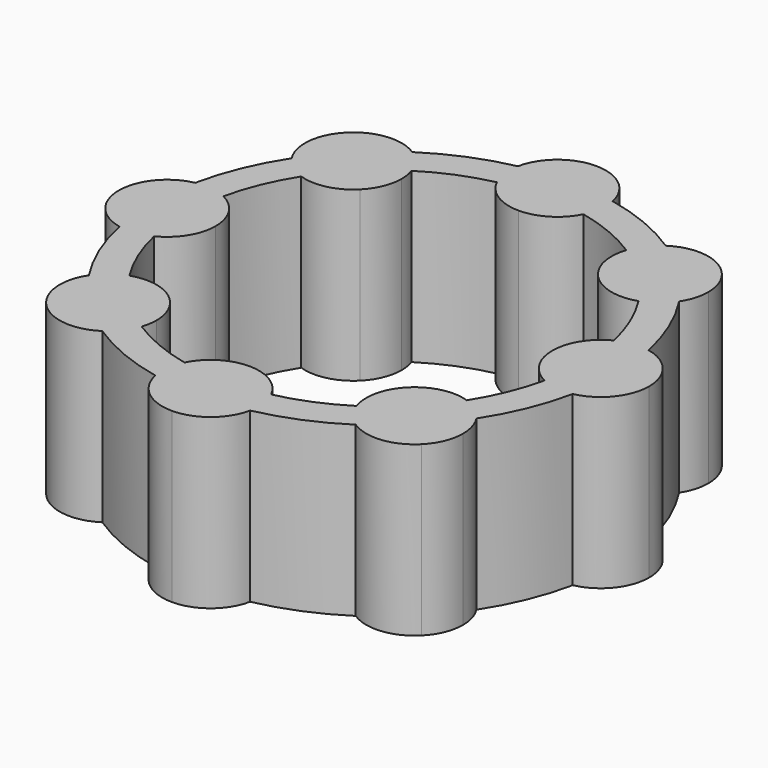
from build123d import *

# Parameters (mm, degrees)
F1_DEPTH = 8


with BuildPart() as f1:
    # F0 (on Top) → F1 (new body)
    with BuildSketch(Plane.XY):
        with BuildLine():
            ThreePointArc((2.2520923755, 10.7669902913), (1.4518819391, 12.0838270193), (0, 12.6))
            ThreePointArc((0, 12.6), (-1.4518819391, 12.0838270193), (-2.2520923755, 10.7669902913))
            ThreePointArc((-2.2520923755, 10.7669902913), (0, 11), (2.2520923755, 10.7669902913))
        make_face()
        with BuildLine():
            ThreePointArc((2.3, 10.3), (2.2879917465, 10.5347206172), (2.2520923755, 10.7669902913))
            ThreePointArc((2.2520923755, 10.7669902913), (0, 11), (-2.2520923755, 10.7669902913))
            ThreePointArc((-2.2520923755, 10.7669902913), (-2.2809196167, 10.0043554464), (-2.0586116077, 9.2742718447))
            ThreePointArc((-2.0586116077, 9.2742718447), (0, 9.5), (2.0586116077, 9.2742718447))
            ThreePointArc((2.0586116077, 9.2742718447), (2.2388397327, 9.7731255831), (2.3, 10.3))
        make_face()
        with BuildLine():
            ThreePointArc((2.0586116077, 9.2742718447), (0, 9.5), (-2.0586116077, 9.2742718447))
            ThreePointArc((-2.0586116077, 9.2742718447), (-1.210542284, 8.34434477), (0, 8))
            ThreePointArc((0, 8), (1.210542284, 8.34434477), (2.0586116077, 9.2742718447))
        make_face()
        with BuildLine():
            ThreePointArc((-2.0586116077, 9.2742718447), (-2.2809196167, 10.0043554464), (-2.2520923755, 10.7669902913))
            ThreePointArc((-2.2520923755, 10.7669902913), (-4.209517756, 10.1626748576), (-6.0209420573, 9.2058816385))
            ThreePointArc((-6.0209420573, 9.2058816385), (-5.4612938492, 8.6870013059), (-5.1022422843, 8.0135587396))
            ThreePointArc((-5.1022422843, 8.0135587396), (-3.6354926075, 8.7768555589), (-2.0586116077, 9.2742718447))
        make_face()
        with BuildLine():
            ThreePointArc((-6.0209420573, 9.2058816385), (-7.5179204749, 9.5711915915), (-8.9095454592, 8.9095454267))
            ThreePointArc((-8.9095454592, 8.9095454267), (-9.5711915938, 7.5179204521), (-9.2058816385, 6.0209420573))
            ThreePointArc((-9.2058816385, 6.0209420573), (-7.7781745931, 7.7781745931), (-6.0209420573, 9.2058816385))
        make_face()
        with BuildLine():
            ThreePointArc((-5.1022422843, 8.0135587396), (-5.4612938492, 8.6870013059), (-6.0209420573, 9.2058816385))
            ThreePointArc((-6.0209420573, 9.2058816385), (-7.7781745931, 7.7781745931), (-9.2058816385, 6.0209420573))
            ThreePointArc((-9.2058816385, 6.0209420573), (-8.6870013059, 5.4612938492), (-8.0135587396, 5.1022422843))
            ThreePointArc((-8.0135587396, 5.1022422843), (-6.7175144213, 6.7175144213), (-5.1022422843, 8.0135587396))
        make_face()
        with BuildLine():
            ThreePointArc((-4.9831998462, 7.2831998462), (-5.0131555303, 7.6531982297), (-5.1022422843, 8.0135587396))
            ThreePointArc((-5.1022422843, 8.0135587396), (-6.7175144213, 6.7175144213), (-8.0135587396, 5.1022422843))
            ThreePointArc((-8.0135587396, 5.1022422843), (-6.7563254348, 5.0443601122), (-5.6568542575, 5.6568542415))
            ThreePointArc((-5.6568542575, 5.6568542415), (-5.1582769236, 6.4030279466), (-4.9831998462, 7.2831998462))
        make_face()
        with BuildLine():
            ThreePointArc((-8.0135587396, 5.1022422843), (-8.6870013059, 5.4612938492), (-9.2058816385, 6.0209420573))
            ThreePointArc((-9.2058816385, 6.0209420573), (-10.1626748576, 4.209517756), (-10.7669902913, 2.2520923755))
            ThreePointArc((-10.7669902913, 2.2520923755), (-10.0043554464, 2.2809196167), (-9.2742718447, 2.0586116077))
            ThreePointArc((-9.2742718447, 2.0586116077), (-8.7768555589, 3.6354926075), (-8.0135587396, 5.1022422843))
        make_face()
        with BuildLine():
            ThreePointArc((-10.7669902913, 2.2520923755), (-12.0838270121, 1.451881948), (-12.6, 2.3e-08))
            ThreePointArc((-12.6, 2.3e-08), (-12.0838270266, -1.4518819302), (-10.7669902913, -2.2520923755))
            ThreePointArc((-10.7669902913, -2.2520923755), (-11, 0), (-10.7669902913, 2.2520923755))
        make_face()
        with BuildLine():
            ThreePointArc((-9.2742718447, 2.0586116077), (-10.0043554464, 2.2809196167), (-10.7669902913, 2.2520923755))
            ThreePointArc((-10.7669902913, 2.2520923755), (-11, 0), (-10.7669902913, -2.2520923755))
            ThreePointArc((-10.7669902913, -2.2520923755), (-10.0043554464, -2.2809196167), (-9.2742718447, -2.0586116077))
            ThreePointArc((-9.2742718447, -2.0586116077), (-9.5, 0), (-9.2742718447, 2.0586116077))
        make_face()
        with BuildLine():
            ThreePointArc((-8, 0), (-8.34434477, 1.210542284), (-9.2742718447, 2.0586116077))
            ThreePointArc((-9.2742718447, 2.0586116077), (-9.5, 0), (-9.2742718447, -2.0586116077))
            ThreePointArc((-9.2742718447, -2.0586116077), (-8.34434477, -1.210542284), (-8, 0))
        make_face()
        with BuildLine():
            ThreePointArc((-10.7669902913, -2.2520923755), (-10.1626748576, -4.209517756), (-9.2058816385, -6.0209420573))
            ThreePointArc((-9.2058816385, -6.0209420573), (-8.6870013059, -5.4612938492), (-8.0135587396, -5.1022422843))
            ThreePointArc((-8.0135587396, -5.1022422843), (-8.7768555589, -3.6354926075), (-9.2742718447, -2.0586116077))
            ThreePointArc((-9.2742718447, -2.0586116077), (-10.0043554464, -2.2809196167), (-10.7669902913, -2.2520923755))
        make_face()
        with BuildLine():
            ThreePointArc((-9.2058816385, -6.0209420573), (-9.5711915942, -7.5179204484), (-8.9095454644, -8.9095454215))
            ThreePointArc((-8.9095454644, -8.9095454215), (-7.5179204785, -9.5711915911), (-6.0209420573, -9.2058816385))
            ThreePointArc((-6.0209420573, -9.2058816385), (-7.7781745931, -7.7781745931), (-9.2058816385, -6.0209420573))
        make_face()
        with BuildLine():
            ThreePointArc((-8.0135587396, -5.1022422843), (-8.6870013059, -5.4612938492), (-9.2058816385, -6.0209420573))
            ThreePointArc((-9.2058816385, -6.0209420573), (-7.7781745931, -7.7781745931), (-6.0209420573, -9.2058816385))
            ThreePointArc((-6.0209420573, -9.2058816385), (-5.4612938492, -8.6870013059), (-5.1022422843, -8.0135587396))
            ThreePointArc((-5.1022422843, -8.0135587396), (-6.7175144213, -6.7175144213), (-8.0135587396, -5.1022422843))
        make_face()
        with BuildLine():
            ThreePointArc((-5.6568542412, -5.6568542578), (-6.7563254237, -5.0443601148), (-8.0135587396, -5.1022422843))
            ThreePointArc((-8.0135587396, -5.1022422843), (-6.7175144213, -6.7175144213), (-5.1022422843, -8.0135587396))
            ThreePointArc((-5.1022422843, -8.0135587396), (-5.0131555303, -7.6531982297), (-4.9831998462, -7.2831998462))
            ThreePointArc((-4.9831998462, -7.2831998462), (-5.1582769192, -6.4030279572), (-5.6568542412, -5.6568542578))
        make_face()
        with BuildLine():
            ThreePointArc((-6.0209420573, -9.2058816385), (-4.209517756, -10.1626748576), (-2.2520923755, -10.7669902913))
            ThreePointArc((-2.2520923755, -10.7669902913), (-2.2809196167, -10.0043554464), (-2.0586116077, -9.2742718447))
            ThreePointArc((-2.0586116077, -9.2742718447), (-3.6354926075, -8.7768555589), (-5.1022422843, -8.0135587396))
            ThreePointArc((-5.1022422843, -8.0135587396), (-5.4612938492, -8.6870013059), (-6.0209420573, -9.2058816385))
        make_face()
        with BuildLine():
            ThreePointArc((-4.9e-09, -8), (-1.2105422861, -8.3443447713), (-2.0586116077, -9.2742718447))
            ThreePointArc((-2.0586116077, -9.2742718447), (0, -9.5), (2.0586116077, -9.2742718447))
            ThreePointArc((2.0586116077, -9.2742718447), (1.2105422819, -8.3443447687), (-4.9e-09, -8))
        make_face()
        with BuildLine():
            ThreePointArc((-2.0586116077, -9.2742718447), (-2.2809196167, -10.0043554464), (-2.2520923755, -10.7669902913))
            ThreePointArc((-2.2520923755, -10.7669902913), (0, -11), (2.2520923755, -10.7669902913))
            ThreePointArc((2.2520923755, -10.7669902913), (2.2879917465, -10.5347206172), (2.3, -10.3))
            ThreePointArc((2.3, -10.3), (2.2388397327, -9.7731255831), (2.0586116077, -9.2742718447))
            ThreePointArc((2.0586116077, -9.2742718447), (0, -9.5), (-2.0586116077, -9.2742718447))
        make_face()
        with BuildLine():
            ThreePointArc((-2.2520923755, -10.7669902913), (-1.4518819339, -12.0838270236), (1.34e-08, -12.6))
            ThreePointArc((1.34e-08, -12.6), (1.4518819443, -12.0838270151), (2.2520923755, -10.7669902913))
            ThreePointArc((2.2520923755, -10.7669902913), (0, -11), (-2.2520923755, -10.7669902913))
        make_face()
        with BuildLine():
            ThreePointArc((2.2520923755, -10.7669902913), (4.209517756, -10.1626748576), (6.0209420573, -9.2058816385))
            ThreePointArc((6.0209420573, -9.2058816385), (5.4612938492, -8.6870013059), (5.1022422843, -8.0135587396))
            ThreePointArc((5.1022422843, -8.0135587396), (3.6354926075, -8.7768555589), (2.0586116077, -9.2742718447))
            ThreePointArc((2.0586116077, -9.2742718447), (2.2388397327, -9.7731255831), (2.3, -10.3))
            ThreePointArc((2.3, -10.3), (2.2879917465, -10.5347206172), (2.2520923755, -10.7669902913))
        make_face()
        with BuildLine():
            ThreePointArc((5.6568542641, -5.6568542349), (5.0443601159, -6.7563254193), (5.1022422843, -8.0135587396))
            ThreePointArc((5.1022422843, -8.0135587396), (6.7175144213, -6.7175144213), (8.0135587396, -5.1022422843))
            ThreePointArc((8.0135587396, -5.1022422843), (6.7563254394, -5.0443601111), (5.6568542641, -5.6568542349))
        make_face()
        with BuildLine():
            ThreePointArc((5.1022422843, -8.0135587396), (5.4612938492, -8.6870013059), (6.0209420573, -9.2058816385))
            ThreePointArc((6.0209420573, -9.2058816385), (7.7781745931, -7.7781745931), (9.2058816385, -6.0209420573))
            ThreePointArc((9.2058816385, -6.0209420573), (8.6870013059, -5.4612938492), (8.0135587396, -5.1022422843))
            ThreePointArc((8.0135587396, -5.1022422843), (6.7175144213, -6.7175144213), (5.1022422843, -8.0135587396))
        make_face()
        with BuildLine():
            ThreePointArc((6.0209420573, -9.2058816385), (7.5179204711, -9.5711915919), (8.9095454539, -8.909545432))
            ThreePointArc((8.9095454539, -8.909545432), (9.408122774, -8.1633717335), (9.5831998462, -7.2831998462))
            ThreePointArc((9.5831998462, -7.2831998462), (9.4868522828, -6.6244768856), (9.2058816385, -6.0209420573))
            ThreePointArc((9.2058816385, -6.0209420573), (7.7781745931, -7.7781745931), (6.0209420573, -9.2058816385))
        make_face()
        with BuildLine():
            ThreePointArc((9.2058816385, -6.0209420573), (10.1626748576, -4.209517756), (10.7669902913, -2.2520923755))
            ThreePointArc((10.7669902913, -2.2520923755), (10.0043554464, -2.2809196167), (9.2742718447, -2.0586116077))
            ThreePointArc((9.2742718447, -2.0586116077), (8.7768555589, -3.6354926075), (8.0135587396, -5.1022422843))
            ThreePointArc((8.0135587396, -5.1022422843), (8.6870013059, -5.4612938492), (9.2058816385, -6.0209420573))
        make_face()
        with BuildLine():
            ThreePointArc((10.7669902913, -2.2520923755), (12.0838270193, -1.4518819391), (12.6, 0))
            ThreePointArc((12.6, 0), (12.0838270193, 1.4518819391), (10.7669902913, 2.2520923755))
            ThreePointArc((10.7669902913, 2.2520923755), (10.9415925076, 1.1320571532), (11, 0))
            ThreePointArc((11, 0), (10.9415925076, -1.1320571532), (10.7669902913, -2.2520923755))
        make_face()
        with BuildLine():
            ThreePointArc((11, 0), (10.9415925076, 1.1320571532), (10.7669902913, 2.2520923755))
            ThreePointArc((10.7669902913, 2.2520923755), (10.0043554464, 2.2809196167), (9.2742718447, 2.0586116077))
            ThreePointArc((9.2742718447, 2.0586116077), (9.4433993489, 1.0354751266), (9.5, 0))
            ThreePointArc((9.5, 0), (9.4433993489, -1.0354751266), (9.2742718447, -2.0586116077))
            ThreePointArc((9.2742718447, -2.0586116077), (10.0043554464, -2.2809196167), (10.7669902913, -2.2520923755))
            ThreePointArc((10.7669902913, -2.2520923755), (10.9415925076, -1.1320571532), (11, 0))
        make_face()
        with BuildLine():
            ThreePointArc((9.5, 0), (9.4433993489, 1.0354751266), (9.2742718447, 2.0586116077))
            ThreePointArc((9.2742718447, 2.0586116077), (8.34434477, 1.210542284), (8, 0))
            ThreePointArc((8, 0), (8.34434477, -1.210542284), (9.2742718447, -2.0586116077))
            ThreePointArc((9.2742718447, -2.0586116077), (9.4433993489, -1.0354751266), (9.5, 0))
        make_face()
        with BuildLine():
            ThreePointArc((9.2742718447, 2.0586116077), (10.0043554464, 2.2809196167), (10.7669902913, 2.2520923755))
            ThreePointArc((10.7669902913, 2.2520923755), (10.1626748576, 4.209517756), (9.2058816385, 6.0209420573))
            ThreePointArc((9.2058816385, 6.0209420573), (8.6870013059, 5.4612938492), (8.0135587396, 5.1022422843))
            ThreePointArc((8.0135587396, 5.1022422843), (8.7768555589, 3.6354926075), (9.2742718447, 2.0586116077))
        make_face()
        with BuildLine():
            ThreePointArc((9.5831998462, 7.2831998462), (9.408122771, 8.1633717407), (8.909545443, 8.909545443))
            ThreePointArc((8.909545443, 8.909545443), (7.5179204635, 9.5711915927), (6.0209420573, 9.2058816385))
            ThreePointArc((6.0209420573, 9.2058816385), (7.7781745931, 7.7781745931), (9.2058816385, 6.0209420573))
            ThreePointArc((9.2058816385, 6.0209420573), (9.4868522828, 6.6244768856), (9.5831998462, 7.2831998462))
        make_face()
        with BuildLine():
            ThreePointArc((9.2058816385, 6.0209420573), (7.7781745931, 7.7781745931), (6.0209420573, 9.2058816385))
            ThreePointArc((6.0209420573, 9.2058816385), (5.4612938492, 8.6870013059), (5.1022422843, 8.0135587396))
            ThreePointArc((5.1022422843, 8.0135587396), (6.7175144213, 6.7175144213), (8.0135587396, 5.1022422843))
            ThreePointArc((8.0135587396, 5.1022422843), (8.6870013059, 5.4612938492), (9.2058816385, 6.0209420573))
        make_face()
        with BuildLine():
            ThreePointArc((8.0135587396, 5.1022422843), (6.7175144213, 6.7175144213), (5.1022422843, 8.0135587396))
            ThreePointArc((5.1022422843, 8.0135587396), (5.0443601135, 6.7563254294), (5.6568542495, 5.6568542495))
            ThreePointArc((5.6568542495, 5.6568542495), (6.7563254294, 5.0443601135), (8.0135587396, 5.1022422843))
        make_face()
        with BuildLine():
            ThreePointArc((5.1022422843, 8.0135587396), (5.4612938492, 8.6870013059), (6.0209420573, 9.2058816385))
            ThreePointArc((6.0209420573, 9.2058816385), (4.209517756, 10.1626748576), (2.2520923755, 10.7669902913))
            ThreePointArc((2.2520923755, 10.7669902913), (2.2879917465, 10.5347206172), (2.3, 10.3))
            ThreePointArc((2.3, 10.3), (2.2388397327, 9.7731255831), (2.0586116077, 9.2742718447))
            ThreePointArc((2.0586116077, 9.2742718447), (3.6354926075, 8.7768555589), (5.1022422843, 8.0135587396))
        make_face()
    extrude(amount=F1_DEPTH)


solid = f1.part
